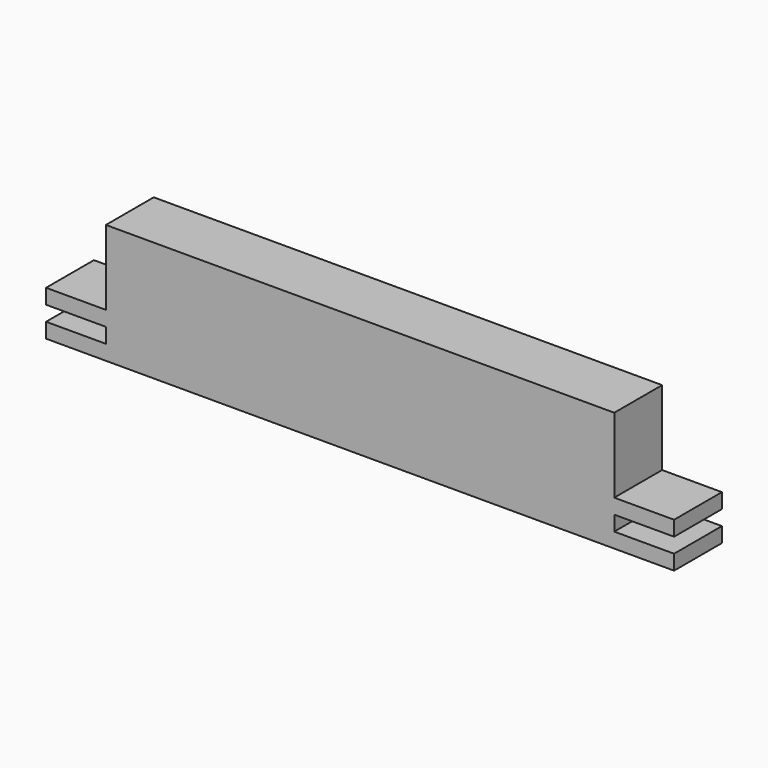
from build123d import *

# Parameters (mm, degrees)
F1_DEPTH = 20


with BuildPart() as f1:
    # F0 (on Front) → F1 (new body, symmetric)
    with BuildSketch(Plane.XZ):
        Polygon((170, 40), (-170, 40), (-170, -10), (-210, -10), (-210, -20), (-170, -20), (-170, -30), (-210, -30), (-210, -40), (-170, -40), (170, -40), (210, -40), (210, -30), (170, -30), (170, -20), (210, -20), (210, -10), (170, -10), align=None)
    extrude(amount=F1_DEPTH, both=True)


solid = f1.part
